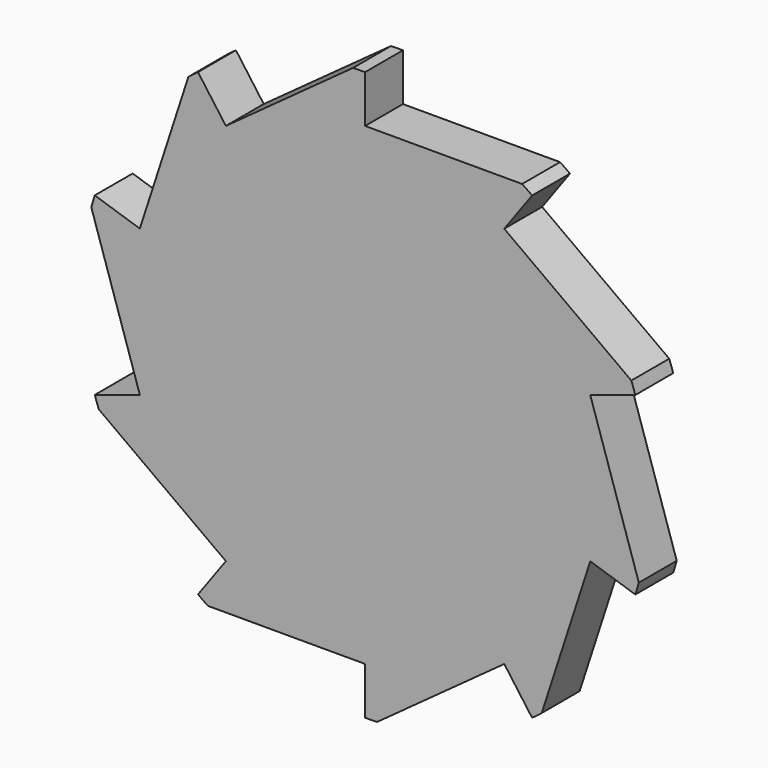
from build123d import *

# Parameters (mm, degrees)
F1_DEPTH = 5


with BuildPart() as f1:
    # F0 (on Front) → F1 (new body)
    with BuildSketch(Plane.XZ):
        with BuildLine():
            Line((23.776413, 7.725425), (28.531695, 9.27051))
            ThreePointArc((28.531695, 9.27051), (28.327614, 9.876553), (28.11066, 10.478109))
            Line((28.11066, 10.478109), (14.694631, 20.225425))
            Line((14.694631, 20.225425), (17.633558, 24.27051))
            ThreePointArc((17.633558, 24.27051), (17.112228, 24.640853), (16.583124, 25))
            Line((16.583124, 25), (0, 25))
            Line((0, 25), (0, 30))
            ThreePointArc((0, 30), (-0.639446, 29.993184), (-1.278602, 29.972741))
            Line((-1.278602, 29.972741), (-14.694631, 20.225425))
            Line((-14.694631, 20.225425), (-17.633558, 24.27051))
            ThreePointArc((-17.633558, 24.27051), (-18.146874, 23.889139), (-18.651946, 23.496913))
            Line((-18.651946, 23.496913), (-23.776413, 7.725425))
            Line((-23.776413, 7.725425), (-28.531695, 9.27051))
            ThreePointArc((-28.531695, 9.27051), (-28.722813, 8.660254), (-28.90088, 8.046063))
            Line((-28.90088, 8.046063), (-23.776413, -7.725425))
            Line((-23.776413, -7.725425), (-28.531695, -9.27051))
            ThreePointArc((-28.531695, -9.27051), (-28.327614, -9.876553), (-28.11066, -10.478109))
            Line((-28.11066, -10.478109), (-14.694631, -20.225425))
            Line((-14.694631, -20.225425), (-17.633558, -24.27051))
            ThreePointArc((-17.633558, -24.27051), (-17.112228, -24.640853), (-16.583124, -25))
            Line((-16.583124, -25), (0, -25))
            Line((0, -25), (0, -30))
            ThreePointArc((0, -30), (0.639446, -29.993184), (1.278602, -29.972741))
            Line((1.278602, -29.972741), (14.694631, -20.225425))
            Line((14.694631, -20.225425), (17.633558, -24.27051))
            ThreePointArc((17.633558, -24.27051), (18.146874, -23.889139), (18.651946, -23.496913))
            Line((18.651946, -23.496913), (23.776413, -7.725425))
            Line((23.776413, -7.725425), (28.531695, -9.27051))
            ThreePointArc((28.531695, -9.27051), (28.722813, -8.660254), (28.90088, -8.046063))
            Line((28.90088, -8.046063), (23.776413, 7.725425))
        make_face()
    extrude(amount=F1_DEPTH)


solid = f1.part
